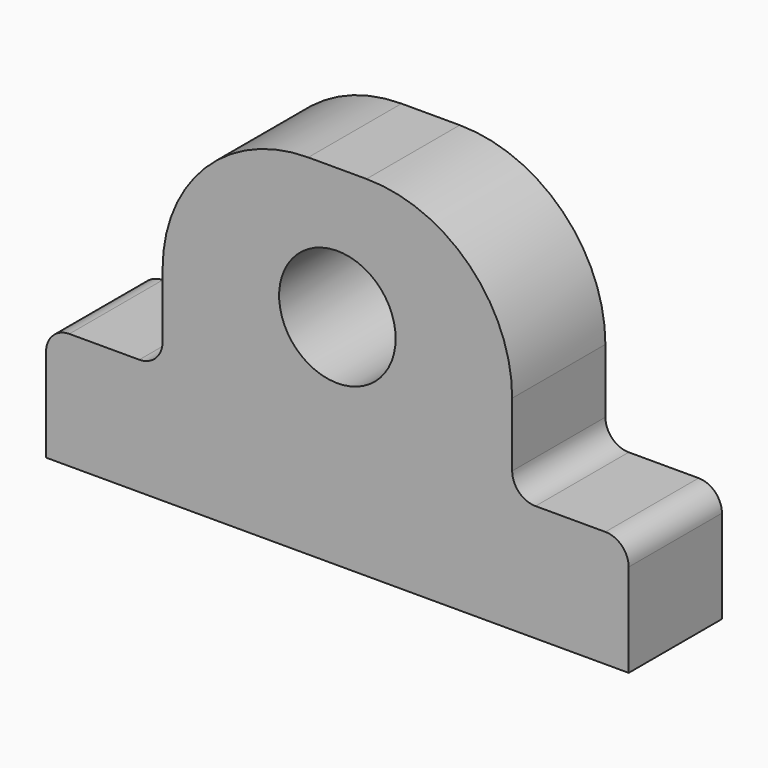
from build123d import *

# Parameters (mm, degrees)
F1_DEPTH = 12.7
F2_R     = 5.08
F3_R     = 31.75
F4_R     = 12.7
F5_DEPTH = 25.4


with BuildPart() as f1:
    # F0 (on Front) → F1 (new body, symmetric)
    with BuildSketch(Plane.XZ):
        Polygon((38.1, 38.1), (-38.1, 38.1), (-38.1, -12.7), (0, -12.7), (38.1, -12.7), align=None)
        Polygon((-38.1, -12.7), (-63.5, -12.7), (-63.5, -38.1), (63.5, -38.1), (63.5, -12.7), (38.1, -12.7), (0, -12.7), align=None)
    extrude(amount=F1_DEPTH, both=True)

    # F2
    f2_edges = [f1.edges().sort_by_distance(p)[0] for p in [
        (-63.5, 0, -12.7),
        (63.5, 0, -12.7),
        (-38.1, 0, -12.7),
        (38.1, 0, -12.7),
    ]]
    fillet(f2_edges, radius=F2_R)

    # F3
    f3_edges = [f1.edges().sort_by_distance(p)[0] for p in [
        (-38.1, 0, 38.1),
        (38.1, 0, 38.1),
    ]]
    fillet(f3_edges, radius=F3_R)

    # F4 (on Front) → F5 (cut, symmetric)
    with BuildSketch(Plane.XZ):
        with Locations((0, 9.525)):
            Circle(F4_R)
    extrude(amount=F5_DEPTH, both=True, mode=Mode.SUBTRACT)


solid = f1.part
